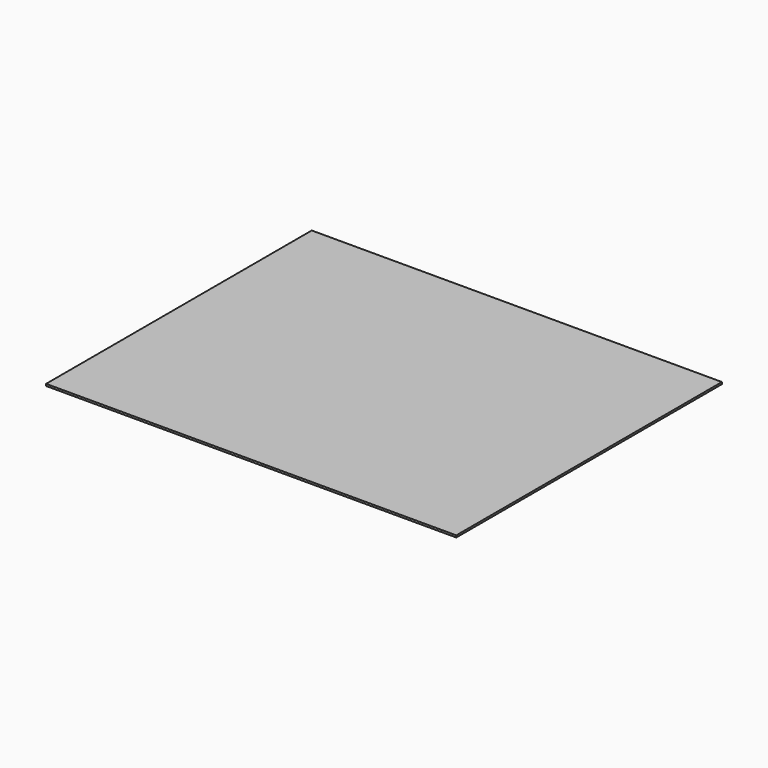
from build123d import *

# Parameters (mm, degrees)
F0_W     = 10
F0_H     = 10
F1_DEPTH = 10
F3_W     = 5250
F3_H     = 4250
F4_DEPTH = 25


with BuildPart() as f1:
    # F0 (on Top) → F1 (new body)
    with BuildSketch(Plane.XY):
        Rectangle(F0_W, F0_H)
    extrude(amount=F1_DEPTH)


with BuildPart() as f4:
    # F3 (on offset) → F4 (new body)
    with BuildSketch(Plane.XY.offset(100)):
        Rectangle(F3_W, F3_H)
    extrude(amount=F4_DEPTH)


solid = Compound([f1.part, f4.part])
